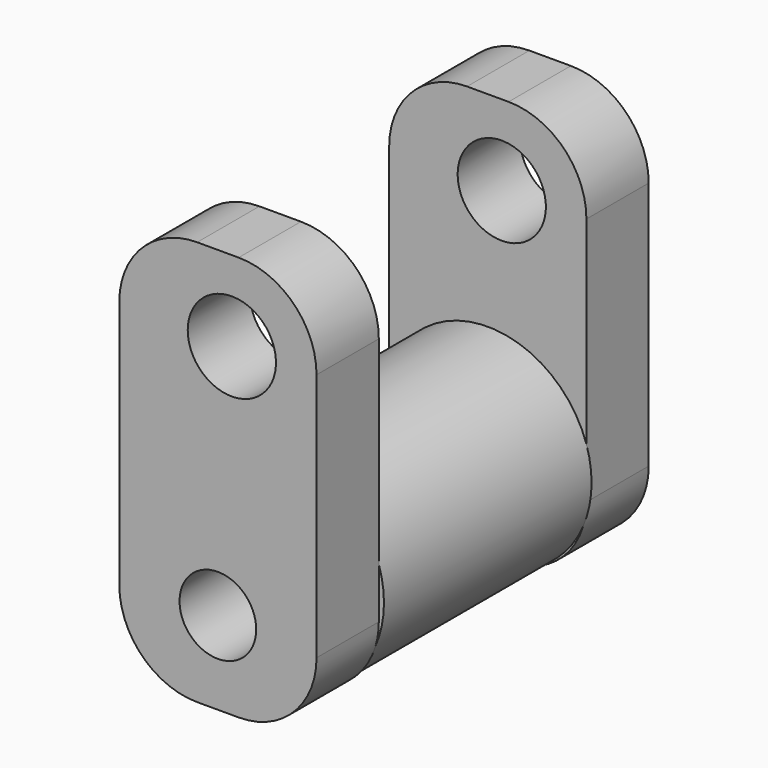
from build123d import *

# Parameters (mm, degrees)
F0_R     = 20
F1_DEPTH = 25
F3_DEPTH = 15
F4_R     = 7.386866
F5_DEPTH = 125
F6_R     = 8.5
F7_DEPTH = 25


with BuildPart() as f1:
    # F0 (on Front) → F1 (new body)
    with BuildSketch(Plane.XZ):
        with Locations((-2.691098, 9.489658)):
            Circle(F0_R)
    extrude(amount=F1_DEPTH)

    # F2 (on face) → F3 (join)
    with BuildSketch(Plane(origin=(0, 0, 0), x_dir=(-1, 0, 0), z_dir=(0, 1, 0))):
        with BuildLine():
            ThreePointArc((-16.315418, 5.920409), (-11.92202, -4.686193), (-1.315418, -9.079591))
            Line((-1.315418, -9.079591), (6.684582, -9.079591))
            ThreePointArc((6.684582, -9.079591), (17.291184, -4.686193), (21.684582, 5.920409))
            Line((21.684582, 5.920409), (21.684582, 53.920409))
            ThreePointArc((21.684582, 53.920409), (17.291184, 64.527011), (6.684582, 68.920409))
            Line((6.684582, 68.920409), (-1.315418, 68.920409))
            ThreePointArc((-1.315418, 68.920409), (-11.92202, 64.527011), (-16.315418, 53.920409))
            Line((-16.315418, 53.920409), (-16.315418, 5.920409))
        make_face()
    extrude(amount=F3_DEPTH)

    # F4 (on face) → F5 (cut)
    with BuildSketch(Plane(origin=(0, 15, 0), x_dir=(-1, 0, 0), z_dir=(0, 1, 0))):
        with Locations((2.691099, 6.940198)):
            Circle(F4_R)
    extrude(amount=-F5_DEPTH, mode=Mode.SUBTRACT)

    # F6 (on face) → F7 (cut)
    with BuildSketch(Plane(origin=(0, 15, 0), x_dir=(-1, 0, 0), z_dir=(0, 1, 0))):
        with Locations((0, 53.43134)):
            Circle(F6_R)
    extrude(amount=-F7_DEPTH, mode=Mode.SUBTRACT)

    # F8: F1 across face


with BuildPart() as f1_1:
    add(f1.part)
    add(f1.part.mirror(Plane(origin=(-2.691098, -25, 9.892378), x_dir=(1, 0, 0), z_dir=(0, -1, 0))))


solid = f1_1.part
